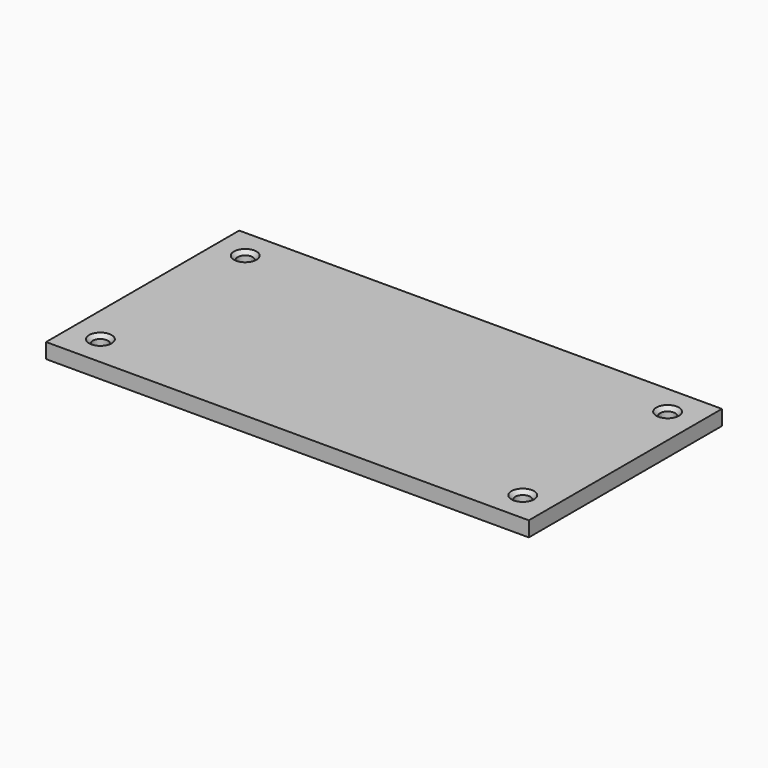
from build123d import *

# Parameters (mm, degrees)
F0_W     = 203.2
F0_H     = 101.6
F0_R     = 3.175
F1_DEPTH = 6.35
F2_SIZE2 = 1.5748
F2_SIZE  = 1.5748
F3_SIZE2 = 1.5748
F3_SIZE  = 1.5748


with BuildPart() as f1:
    # F0 (on Top) → F1 (new body)
    with BuildSketch(Plane.XY):
        with Locations((18.788079, 16.545452)):
            Rectangle(F0_W, F0_H)
        with Locations((-70.111921, -21.554548)):
            Circle(F0_R, mode=Mode.SUBTRACT)
        with Locations((107.688079, -21.554548)):
            Circle(F0_R, mode=Mode.SUBTRACT)
        with Locations((-70.111921, 54.645452)):
            Circle(F0_R, mode=Mode.SUBTRACT)
        with Locations((107.688079, 54.645452)):
            Circle(F0_R, mode=Mode.SUBTRACT)
    extrude(amount=F1_DEPTH)

    # F2
    f2_edges = [f1.edges().sort_by_distance(p)[0] for p in [
        (-66.936921, 54.645452, 3.175),
        (-73.286921, 54.645452, 0),
        (-73.286921, 54.645452, 6.35),
    ]]
    chamfer(f2_edges, length=F2_SIZE, length2=F2_SIZE2)

    # F3
    f3_edges = [f1.edges().sort_by_distance(p)[0] for p in [
        (110.863079, 54.645452, 3.175),
        (104.513079, 54.645452, 0),
        (104.513079, 54.645452, 6.35),
        (110.863079, -21.554548, 3.175),
        (104.513079, -21.554548, 0),
        (104.513079, -21.554548, 6.35),
        (-66.936921, -21.554548, 3.175),
        (-73.286921, -21.554548, 0),
        (-73.286921, -21.554548, 6.35),
    ]]
    chamfer(f3_edges, length=F3_SIZE, length2=F3_SIZE2)


solid = f1.part
